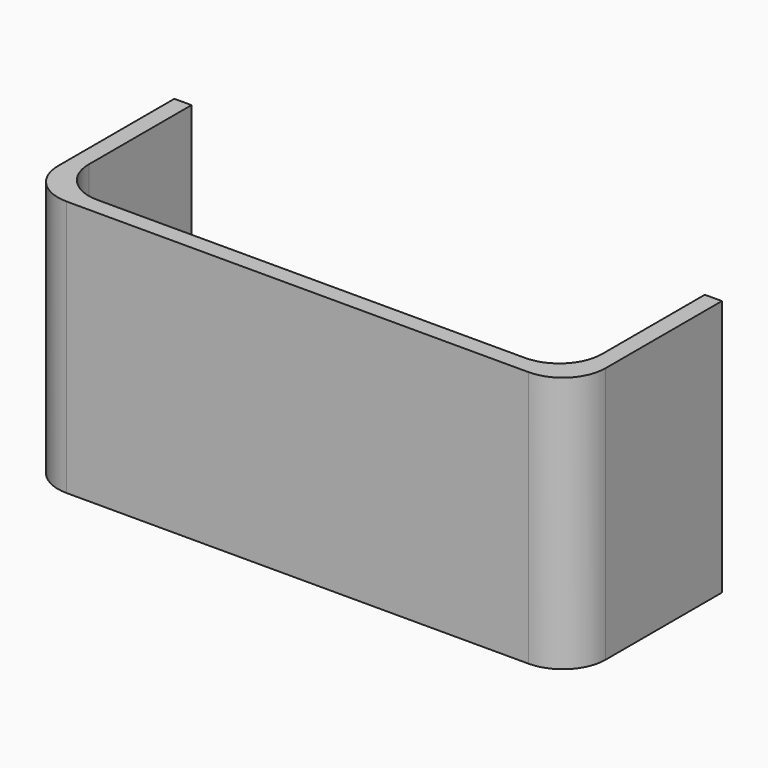
from build123d import *

# Parameters (mm, degrees)
F1_DEPTH = 30


with BuildPart() as f1:
    # F0 (on Top) → F1 (new body)
    with BuildSketch(Plane.XY):
        with BuildLine():
            Line((25, 0), (0, 0))
            Line((0, 0), (-25, 0))
            ThreePointArc((-25, 0), (-28.535534, 1.464466), (-30, 5))
            Line((-30, 5), (-30, 20))
            Line((-30, 20), (-32, 20))
            Line((-32, 20), (-32, 3))
            ThreePointArc((-32, 3), (-30.535534, -0.535534), (-27, -2))
            Line((-27, -2), (0, -2))
            Line((0, -2), (27, -2))
            ThreePointArc((27, -2), (30.535534, -0.535534), (32, 3))
            Line((32, 3), (32, 20))
            Line((32, 20), (30, 20))
            Line((30, 20), (30, 5))
            ThreePointArc((30, 5), (28.535534, 1.464466), (25, 0))
        make_face()
    extrude(amount=F1_DEPTH)


solid = f1.part
